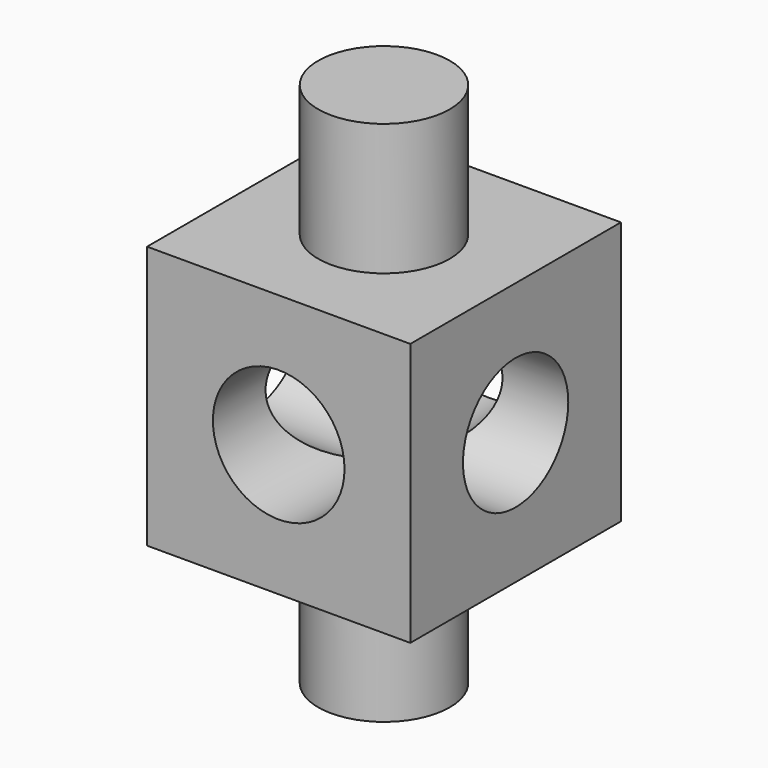
from build123d import *

# Parameters (mm, degrees)
F0_W     = 50
F0_H     = 50
F1_DEPTH = 50
F2_R     = 12.5
F3_DEPTH = 25
F4_R     = 12.5
F5_DEPTH = 50
F6_R     = 12.5
F7_DEPTH = 50
F8_R     = 12.5
F9_DEPTH = 25


with BuildPart() as f1:
    # F0 (on Front) → F1 (new body)
    with BuildSketch(Plane.XZ):
        with Locations((25, 25)):
            Rectangle(F0_W, F0_H)
    extrude(amount=F1_DEPTH)

    # F2 (on face) → F3 (join)
    with BuildSketch(Plane.XY.offset(50)):
        with Locations((25, -25)):
            Circle(F2_R)
    extrude(amount=F3_DEPTH)

    # F4 (on face) → F5 (cut)
    with BuildSketch(Plane.YZ.offset(50)):
        with Locations((-25, 25)):
            Circle(F4_R)
    extrude(amount=-F5_DEPTH, mode=Mode.SUBTRACT)

    # F6 (on face) → F7 (cut)
    with BuildSketch(Plane.XZ.offset(50)):
        with Locations((25, 25)):
            Circle(F6_R)
    extrude(amount=-F7_DEPTH, mode=Mode.SUBTRACT)

    # F8 (on face) → F9 (join)
    with BuildSketch(Plane(origin=(0, 0, 0), x_dir=(1, 0, 0), z_dir=(0, 0, -1))):
        with Locations((25, 25)):
            Circle(F8_R)
    extrude(amount=F9_DEPTH)


solid = f1.part
